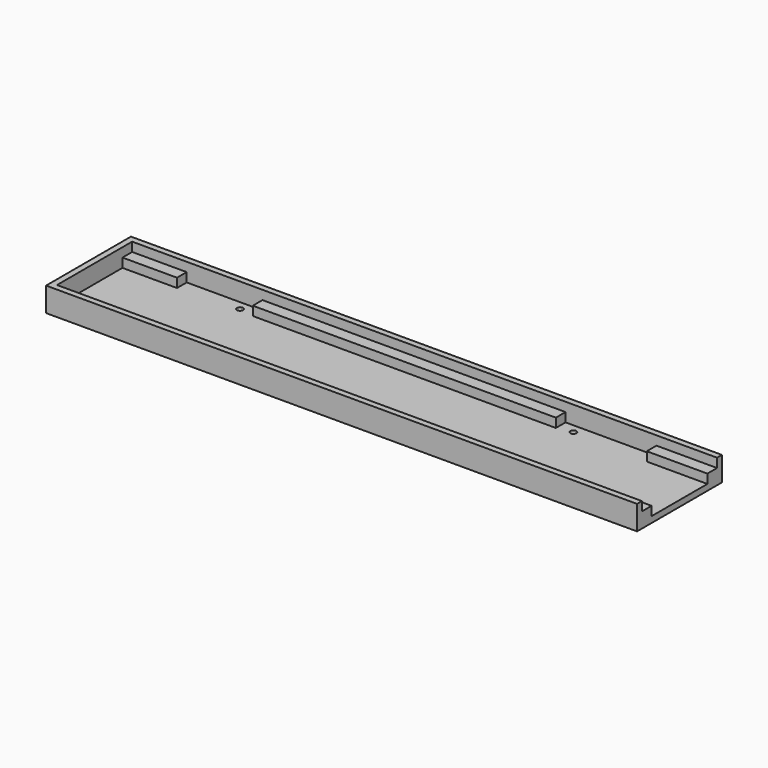
from build123d import *

# Parameters (mm, degrees)
F0_W      = 195
F0_H      = 35
F1_DEPTH  = 2
F2_W      = 195
F2_H      = 2
F3_DEPTH  = 6
F4_W      = 18
F4_H      = 4
F5_DEPTH  = 3
F6_W      = 100
F6_H      = 4
F7_DEPTH  = 3
F8_W      = 20
F8_H      = 4
F9_DEPTH  = 3
F10_W     = 2
F10_H     = 31
F11_DEPTH = 6
F12_W     = 15
F12_H     = 2
F13_DEPTH = 3
F14_W     = 60
F14_H     = 2
F15_DEPTH = 3
F17_D     = 2


with BuildPart() as f1:
    # F0 (on Top) → F1 (new body)
    with BuildSketch(Plane.XY):
        Rectangle(F0_W, F0_H)
    extrude(amount=F1_DEPTH)

    # F2 (on face) → F3 (join)
    with BuildSketch(Plane.XY.offset(2)):
        with Locations((0, -16.5)):
            Rectangle(F2_W, F2_H)
        with Locations((0, 16.5)):
            Rectangle(F2_W, F2_H)
    extrude(amount=F3_DEPTH)

    # F4 (on face) → F5 (join)
    with BuildSketch(Plane.XY.offset(2)):
        with Locations((-86.5, 13.5)):
            Rectangle(F4_W, F4_H)
    extrude(amount=F5_DEPTH)

    # F6 (on face) → F7 (join)
    with BuildSketch(Plane.XY.offset(2)):
        with Locations((-2.5, 13.5)):
            Rectangle(F6_W, F6_H)
    extrude(amount=F7_DEPTH)

    # F8 (on face) → F9 (join)
    with BuildSketch(Plane.XY.offset(2)):
        with Locations((87.5, 13.5)):
            Rectangle(F8_W, F8_H)
    extrude(amount=F9_DEPTH)

    # F10 (on face) → F11 (join)
    with BuildSketch(Plane.XY.offset(2)):
        with Locations((-96.5, 0)):
            Rectangle(F10_W, F10_H)
    extrude(amount=F11_DEPTH)

    # F12 (on face) → F13 (join)
    with BuildSketch(Plane.XY.offset(2)):
        with Locations((90, -14.5)):
            Rectangle(F12_W, F12_H)
        Polygon((82.5, -13.5), (97.5, -13.5), (97.5, -11.5), (32.5, -11.5), (32.5, -13.5), align=None)
    extrude(amount=F13_DEPTH)

    # F14 (on face) → F15 (join)
    with BuildSketch(Plane.XY.offset(2)):
        with Locations((-65.5, -12.5)):
            Rectangle(F14_W, F14_H)
    extrude(amount=F15_DEPTH)

    # F17 (through all)
    with Locations(Plane.XY.offset(2)):
        with Locations((-57.5, 12.5), (52.5, 12.5)):
            Hole(F17_D / 2)


solid = f1.part
